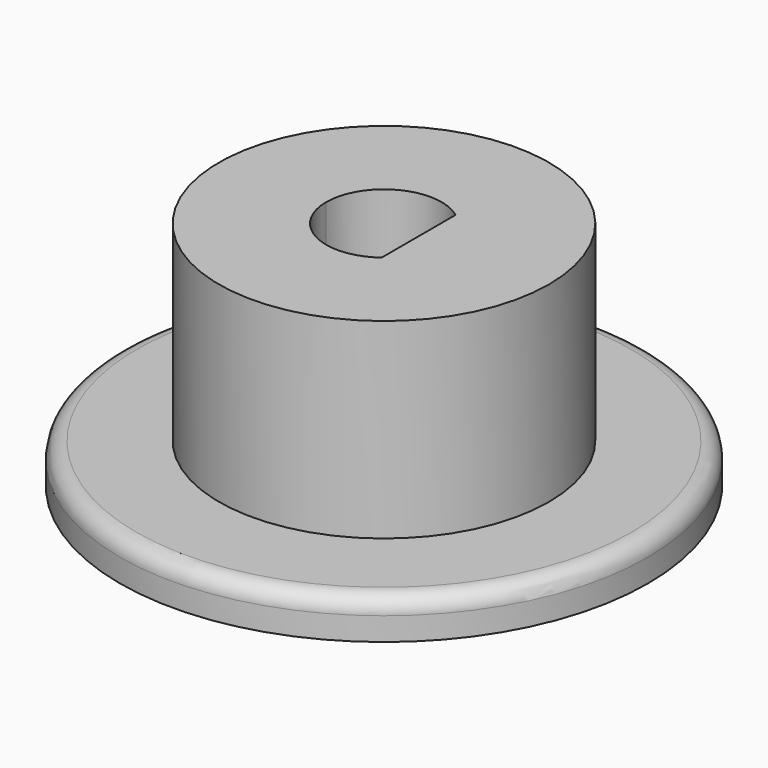
from build123d import *

# Parameters (mm, degrees)
F0_R     = 5
F1_DEPTH = 7
F0_R_2   = 8
F2_DEPTH = 1.2
F3_R     = 0.5


with BuildPart() as f1:
    # F0 (on Top) → F1 (new body)
    with BuildSketch(Plane.XY):
        Circle(F0_R)
        with BuildLine():
            ThreePointArc((1.05, 1.4), (1.5652475842, 0.7826237921), (1.75, 0))
            ThreePointArc((1.75, 0), (1.5652475842, -0.7826237921), (1.05, -1.4))
            ThreePointArc((1.05, -1.4), (-0.7826237921, -1.5652475842), (-1.75, 0))
            ThreePointArc((-1.75, 0), (-0.7826237921, 1.5652475842), (1.05, 1.4))
        make_face(mode=Mode.SUBTRACT)
        with BuildLine():
            ThreePointArc((1.05, -1.4), (1.5652475842, -0.7826237921), (1.75, 0))
            ThreePointArc((1.75, 0), (1.5652475842, 0.7826237921), (1.05, 1.4))
            Line((1.05, 1.4), (1.05, 0))
            Line((1.05, 0), (1.05, -1.4))
        make_face()
    extrude(amount=F1_DEPTH)

    # F0 (on Top) → F2 (join)
    with BuildSketch(Plane.XY):
        Circle(F0_R_2)
        Circle(F0_R, mode=Mode.SUBTRACT)
    extrude(amount=F2_DEPTH)

    # F3
    f3_edges = [f1.edges().sort_by_distance(p)[0] for p in [
        (-8, 0, 1.2),
    ]]
    fillet(f3_edges, radius=F3_R)


solid = f1.part
